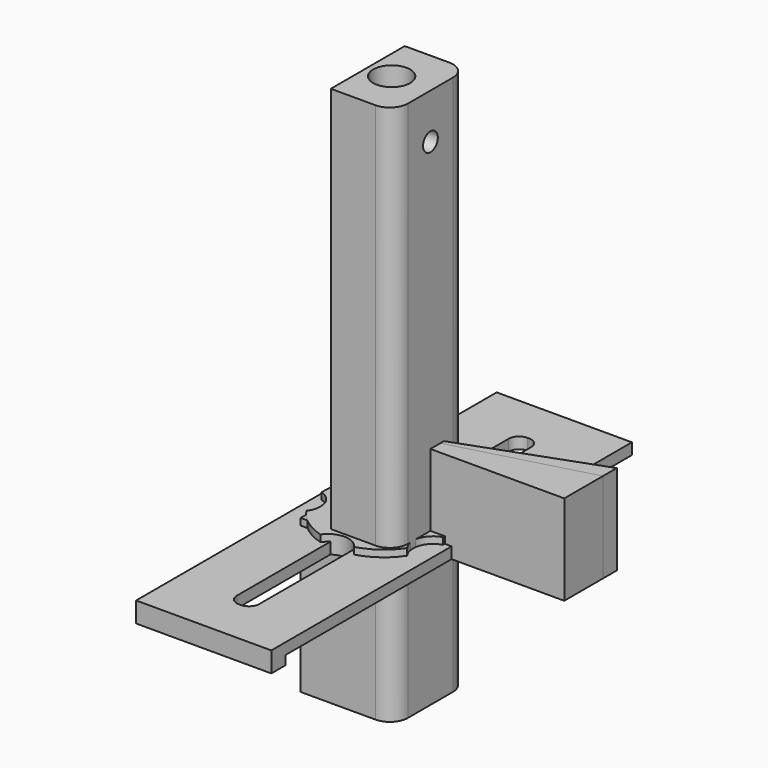
from build123d import *

# Parameters (mm, degrees)
PAD_DEPTH             = 20
PAD001_DEPTH          = 20
SKETCH002_R           = 4.1
PAD002_DEPTH          = 30
SKETCH003_W           = 6.7
SKETCH003_H           = 20.5
POCKET_DEPTH          = 28
SKETCH004_W           = 1.5
SKETCH004_H           = 20.5
PAD003_DEPTH          = 2
SKETCH005_R           = 2.05
POCKET001_DEPTH       = 5
SKETCH006_R           = 4.1
PAD004_DEPTH          = 90
SKETCH007_W           = 6.7
SKETCH007_H           = 20.5
POCKET002_DEPTH       = 88
SKETCH008_W           = 1.5
SKETCH008_H           = 20.5
PAD005_DEPTH          = 2
SKETCH009_R           = 2.05
POCKET003_DEPTH       = 5
PAD006_DEPTH          = 30
SKETCH011_W           = 30
SKETCH011_H           = 100
PAD007_DEPTH          = 2.5
SKETCH012_W           = 30
SKETCH012_H           = 4
PAD008_DEPTH          = 2
SKETCH013_W           = 13
SKETCH013_H           = 13
SKETCH013_R           = 4.05
PAD009_DEPTH          = 7
SKETCH014_R           = 1.555
POCKET004_DEPTH       = 5
FILLET_R              = 4
SKETCH015_R           = 10.25
PAD010_DEPTH          = 4
SKETCH016_R           = 4.7
PAD011_DEPTH          = 3.2
SKETCH017_R           = 2.695
POCKET005_DEPTH       = 3.2
SKETCH018_R           = 4.5
POCKET006_DEPTH       = 63.745121
POLARPATTERN_COUNT    = 5
SKETCH019_R           = 11.5
PAD012_DEPTH          = 4
SKETCH020_R           = 5.335
PAD013_DEPTH          = 5.2
SKETCH021_R           = 3.3
POCKET007_DEPTH       = 5.2
SKETCH022_R           = 4.5
POCKET008_DEPTH       = 71.606917
POLARPATTERN001_COUNT = 5
SKETCH023_R           = 13.5
PAD014_DEPTH          = 4
SKETCH024_R           = 6.245
PAD015_DEPTH          = 5.2
SKETCH025_R           = 3.3
POCKET009_DEPTH       = 5.2
SKETCH026_R           = 4.5
POCKET010_DEPTH       = 82.553912
POLARPATTERN002_COUNT = 5


with BuildPart() as f_20anglebody:
    # Sketch → Pad (new body)
    with BuildSketch(Plane.XY):
        Polygon((0, 0), (40, 0), (40, 14.558809), align=None)
    extrude(amount=PAD_DEPTH)


with BuildPart() as f_15anglebody:
    # Sketch001 → Pad001 (new body)
    with BuildSketch(Plane.XY):
        Polygon((0, 0), (40, 0), (40, 10.717968), align=None)
    extrude(amount=PAD001_DEPTH)


with BuildPart() as holdershaftbody:
    # Sketch002 → Pad002 (new body)
    with BuildSketch(Plane.XY):
        with BuildLine():
            Line((-10.3, 10.25), (-10.3, -10.25))
            Line((-10.3, -10.25), (6.3, -10.25))
            ThreePointArc((6.3, -10.25), (9.128427, -9.078427), (10.3, -6.25))
            Line((10.3, -6.25), (10.3, 6.25))
            ThreePointArc((10.3, 6.25), (9.128427, 9.078427), (6.3, 10.25))
            Line((6.3, 10.25), (-10.3, 10.25))
        make_face()
        with Locations((1.7, 0)):
            Circle(SKETCH002_R, mode=Mode.SUBTRACT)
    extrude(amount=PAD002_DEPTH)

    # Sketch003 (on Face9 of Pad002) → Pocket (cut)
    with BuildSketch(Plane.XY.offset(30)):
        with Locations((-6.95, 0)):
            Rectangle(SKETCH003_W, SKETCH003_H)
    extrude(amount=-POCKET_DEPTH, mode=Mode.SUBTRACT)

    # Sketch004 (on Face4 of Pocket) → Pad003 (join)
    with BuildSketch(Plane.XY.offset(2)):
        with Locations((-9.55, 0)):
            Rectangle(SKETCH004_W, SKETCH004_H)
    extrude(amount=PAD003_DEPTH)

    # Sketch005 (on Face3 of Pad003) → Pocket001 (cut)
    with BuildSketch(Plane.YZ.offset(10.3)):
        with Locations((0, 15)):
            Circle(SKETCH005_R)
    extrude(amount=-POCKET001_DEPTH, mode=Mode.SUBTRACT)


with BuildPart() as holderendbody:
    # Sketch006 → Pad004 (new body)
    with BuildSketch(Plane.XY):
        with BuildLine():
            Line((-10.3, 10.25), (-10.3, -10.25))
            Line((-10.3, -10.25), (6.3, -10.25))
            ThreePointArc((6.3, -10.25), (9.128427, -9.078427), (10.3, -6.25))
            Line((10.3, -6.25), (10.3, 6.25))
            ThreePointArc((10.3, 6.25), (9.128427, 9.078427), (6.3, 10.25))
            Line((6.3, 10.25), (-10.3, 10.25))
        make_face()
        with Locations((1.7, 0)):
            Circle(SKETCH006_R, mode=Mode.SUBTRACT)
    extrude(amount=PAD004_DEPTH)

    # Sketch007 (on Face9 of Pad004) → Pocket002 (cut)
    with BuildSketch(Plane.XY.offset(90)):
        with Locations((-6.95, 0)):
            Rectangle(SKETCH007_W, SKETCH007_H)
    extrude(amount=-POCKET002_DEPTH, mode=Mode.SUBTRACT)

    # Sketch008 (on Face4 of Pocket002) → Pad005 (join)
    with BuildSketch(Plane.XY.offset(2)):
        with Locations((-9.55, 0)):
            Rectangle(SKETCH008_W, SKETCH008_H)
    extrude(amount=PAD005_DEPTH)

    # Sketch009 (on Face3 of Pad005) → Pocket003 (cut)
    with BuildSketch(Plane.YZ.offset(10.3)):
        with Locations((0, 80)):
            Circle(SKETCH009_R)
        with Locations((0, 80)):
            Circle(SKETCH009_R)
    extrude(amount=-POCKET003_DEPTH, mode=Mode.SUBTRACT)

    # Sketch010 (on Face1 of Pocket003) → Pad006 (join)
    with BuildSketch(Plane(origin=(0, 0, 0), x_dir=(1, 0, 0), z_dir=(0, 0, -1))):
        with BuildLine():
            Line((-10.3, 10.25), (-10.3, -10.25))
            Line((-10.3, -10.25), (6.3, -10.25))
            ThreePointArc((6.3, -10.25), (9.128427, -9.078427), (10.3, -6.25))
            Line((10.3, -6.25), (10.3, 6.25))
            ThreePointArc((10.3, 6.25), (9.128427, 9.078427), (6.3, 10.25))
            Line((6.3, 10.25), (-10.3, 10.25))
        make_face()
    extrude(amount=PAD006_DEPTH)


with BuildPart() as knifebinderbody:
    # Sketch011 → Pad007 (new body)
    with BuildSketch(Plane.XY):
        Rectangle(SKETCH011_W, SKETCH011_H)
        with BuildLine():
            Line((-2.5, 37.7), (-2.5, -37.7))
            ThreePointArc((-2.5, -37.7), (-1.826346, -39.326346), (-0.2, -40))
            Line((-0.2, -40), (0.2, -40))
            ThreePointArc((0.2, -40), (1.826346, -39.326346), (2.5, -37.7))
            Line((2.5, -37.7), (2.5, 37.7))
            ThreePointArc((2.5, 37.7), (1.826346, 39.326346), (0.2, 40))
            Line((0.2, 40), (-0.2, 40))
            ThreePointArc((-0.2, 40), (-1.826346, 39.326346), (-2.5, 37.7))
        make_face(mode=Mode.SUBTRACT)
    extrude(amount=PAD007_DEPTH)

    # Sketch012 (on Face13 of Pad007) → Pad008 (join)
    with BuildSketch(Plane(origin=(0, 0, 0), x_dir=(1, 0, 0), z_dir=(0, 0, -1))):
        with Locations((0, 48)):
            Rectangle(SKETCH012_W, SKETCH012_H)
    extrude(amount=PAD008_DEPTH)


with BuildPart() as obj1:
    # Sketch013 → Pad009 (new body)
    with BuildSketch(Plane.XY):
        Rectangle(SKETCH013_W, SKETCH013_H)
        Circle(SKETCH013_R, mode=Mode.SUBTRACT)
    extrude(amount=PAD009_DEPTH)

    # Sketch014 (on Face3 of Pad009) → Pocket004 (cut)
    with BuildSketch(Plane.YZ.offset(6.5)):
        with Locations((0, 3.5)):
            Circle(SKETCH014_R)
    extrude(amount=-POCKET004_DEPTH, mode=Mode.SUBTRACT)

    # Fillet
    fillet_edges = [obj1.edges().sort_by_distance(p)[0] for p in [
        (6.5, 6.5, 3.5),
        (6.5, -6.5, 3.5),
        (-6.5, -6.5, 3.5),
        (-6.5, 6.5, 3.5),
    ]]
    fillet(fillet_edges, radius=FILLET_R)


with BuildPart() as obj2:
    # Sketch015 → Pad010 (new body)
    with BuildSketch(Plane.XY):
        Circle(SKETCH015_R)
    extrude(amount=PAD010_DEPTH)

    # Sketch016 (on Face2 of Pad010) → Pad011 (join)
    with BuildSketch(Plane(origin=(0, 0, 0), x_dir=(1, 0, 0), z_dir=(0, 0, -1))):
        Circle(SKETCH016_R)
    extrude(amount=PAD011_DEPTH)

    # Sketch017 (on Face5 of Pad011) → Pocket005 (cut)
    with BuildSketch(Plane(origin=(0, 0, -3.2), x_dir=(1, 0, 0), z_dir=(0, 0, -1))):
        Circle(SKETCH017_R)
    extrude(amount=-POCKET005_DEPTH, mode=Mode.SUBTRACT)

    # Sketch018 (on Face2 of Pocket005) → Pocket006 (cut, through all)
    with BuildSketch(Plane(origin=(0, 0, 0), x_dir=(1, 0, 0), z_dir=(0, 0, -1))):
        with Locations((0, 13)):
            Circle(SKETCH018_R)
    pocket006 = extrude(amount=-POCKET006_DEPTH, mode=Mode.SUBTRACT)

    # PolarPattern: Pocket006 ×5 about axis
    polarpattern_axis = Axis((0, 0, 0), (0, 0, -1))
    for i in range(1, POLARPATTERN_COUNT):
        add(pocket006.rotate(polarpattern_axis, i * 360 / POLARPATTERN_COUNT), mode=Mode.SUBTRACT)


with BuildPart() as obj3:
    # Sketch019 → Pad012 (new body)
    with BuildSketch(Plane.XY):
        Circle(SKETCH019_R)
    extrude(amount=PAD012_DEPTH)

    # Sketch020 (on Face2 of Pad012) → Pad013 (join)
    with BuildSketch(Plane(origin=(0, 0, 0), x_dir=(1, 0, 0), z_dir=(0, 0, -1))):
        Circle(SKETCH020_R)
    extrude(amount=PAD013_DEPTH)

    # Sketch021 (on Face5 of Pad013) → Pocket007 (cut)
    with BuildSketch(Plane(origin=(0, 0, -5.2), x_dir=(1, 0, 0), z_dir=(0, 0, -1))):
        Circle(SKETCH021_R)
    extrude(amount=-POCKET007_DEPTH, mode=Mode.SUBTRACT)

    # Sketch022 (on Face2 of Pocket007) → Pocket008 (cut, through all)
    with BuildSketch(Plane(origin=(0, 0, 0), x_dir=(1, 0, 0), z_dir=(0, 0, -1))):
        with Locations((0, 14)):
            Circle(SKETCH022_R)
    pocket008 = extrude(amount=-POCKET008_DEPTH, mode=Mode.SUBTRACT)

    # PolarPattern001: Pocket008 ×5 about axis
    polarpattern001_axis = Axis((0, 0, 0), (0, 0, -1))
    for i in range(1, POLARPATTERN001_COUNT):
        add(pocket008.rotate(polarpattern001_axis, i * 360 / POLARPATTERN001_COUNT), mode=Mode.SUBTRACT)


with BuildPart() as obj4:
    # Sketch023 → Pad014 (new body)
    with BuildSketch(Plane.XY):
        Circle(SKETCH023_R)
    extrude(amount=PAD014_DEPTH)

    # Sketch024 (on Face2 of Pad014) → Pad015 (join)
    with BuildSketch(Plane(origin=(0, 0, 0), x_dir=(1, 0, 0), z_dir=(0, 0, -1))):
        Circle(SKETCH024_R)
    extrude(amount=PAD015_DEPTH)

    # Sketch025 (on Face5 of Pad015) → Pocket009 (cut)
    with BuildSketch(Plane(origin=(0, 0, -5.2), x_dir=(1, 0, 0), z_dir=(0, 0, -1))):
        Circle(SKETCH025_R)
    extrude(amount=-POCKET009_DEPTH, mode=Mode.SUBTRACT)

    # Sketch026 (on Face2 of Pocket009) → Pocket010 (cut, through all)
    with BuildSketch(Plane(origin=(0, 0, 0), x_dir=(1, 0, 0), z_dir=(0, 0, -1))):
        with Locations((0, 15.5)):
            Circle(SKETCH026_R)
    pocket010 = extrude(amount=-POCKET010_DEPTH, mode=Mode.SUBTRACT)

    # PolarPattern002: Pocket010 ×5 about axis
    polarpattern002_axis = Axis((0, 0, 0), (0, 0, -1))
    for i in range(1, POLARPATTERN002_COUNT):
        add(pocket010.rotate(polarpattern002_axis, i * 360 / POLARPATTERN002_COUNT), mode=Mode.SUBTRACT)


solid = Compound([f_20anglebody.part, f_15anglebody.part, holdershaftbody.part, holderendbody.part, knifebinderbody.part, obj1.part, obj2.part, obj3.part, obj4.part])
